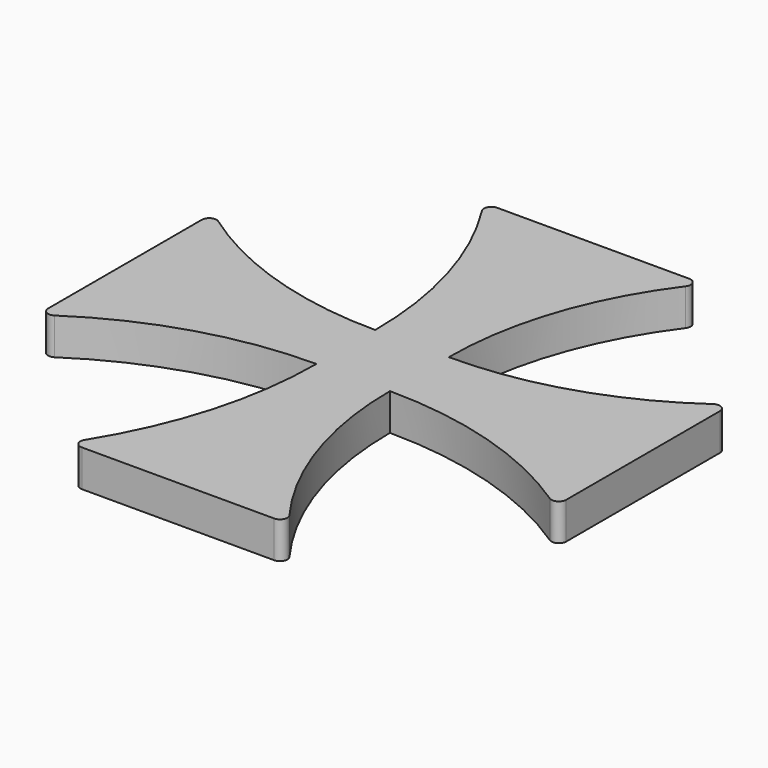
from build123d import *

# Parameters (mm, degrees)
F0_W     = 12.7
F0_H     = 12.7
F1_DEPTH = 6.35


with BuildPart() as f1:
    # F0 (on Top) → F1 (new body)
    with BuildSketch(Plane.XY):
        with BuildLine():
            ThreePointArc((-14.3442461442, 44.2214552806), (-6.5157083147, 26.8794460168), (-3.8352688611, 8.0420753353))
            Line((-3.8352688611, 8.0420753353), (8.8647311389, 8.0420753353))
            ThreePointArc((8.8647311389, 8.0420753353), (11.9476385408, 27.0650575602), (20.880769419, 44.1406935217))
            ThreePointArc((20.880769419, 44.1406935217), (20.9998140667, 45.4702783229), (19.8641300474, 46.1718402803))
            Line((19.8641300474, 46.1718402803), (-13.2718766872, 46.1718402803))
            ThreePointArc((-13.2718766872, 46.1718402803), (-14.3847533537, 45.5137271368), (-14.3442461442, 44.2214552806))
        make_face()
        with Locations((2.5147311389, 1.6920753353)):
            Rectangle(F0_W, F0_H)
        with BuildLine():
            Line((-3.8352688611, -4.6579246647), (-3.8352688611, 8.0420753353))
            ThreePointArc((-3.8352688611, 8.0420753353), (-22.907618948, 11.0020865054), (-40.1856249292, 19.6036394628))
            ThreePointArc((-40.1856249292, 19.6036394628), (-41.5028704476, 19.6949558736), (-42.1892777085, 18.5669844578))
            Line((-42.1892777085, 18.5669844578), (-42.1892777085, -14.5952644188))
            ThreePointArc((-42.1892777085, -14.5952644188), (-41.5191124393, -15.71468315), (-40.2158945655, -15.6526915577))
            ThreePointArc((-40.2158945655, -15.6526915577), (-22.838129341, -7.4666661965), (-3.8352688611, -4.6579246647))
        make_face()
        with BuildLine():
            ThreePointArc((45.2407089921, 19.6050392493), (27.949501895, 11.0023674821), (8.8647311389, 8.0420753353))
            Line((8.8647311389, 8.0420753353), (8.8647311389, -4.6579246647))
            ThreePointArc((8.8647311389, -4.6579246647), (27.8800368025, -7.4669240382), (45.2709735466, -15.6539653915))
            ThreePointArc((45.2709735466, -15.6539653915), (46.574029319, -15.715630352), (47.2440123558, -14.5963092882))
            Line((47.2440123558, -14.5963092882), (47.2440123558, 18.5681370471))
            ThreePointArc((47.2440123558, 18.5681370471), (46.5577951614, 19.6960101056), (45.2407089921, 19.6050392493))
        make_face()
        with BuildLine():
            Line((8.8647311389, -4.6579246647), (-3.8352688611, -4.6579246647))
            ThreePointArc((-3.8352688611, -4.6579246647), (-6.5218024455, -23.8140944846), (-14.3741217041, -41.4922557897))
            ThreePointArc((-14.3741217041, -41.4922557897), (-14.4067252377, -42.7803530641), (-13.2963171308, -43.4339977801))
            Line((-13.2963171308, -43.4339977801), (19.8958706735, -43.4339977801))
            ThreePointArc((19.8958706735, -43.4339977801), (21.0290377599, -42.737436839), (20.9191813312, -41.4118440073))
            ThreePointArc((20.9191813312, -41.4118440073), (11.955300347, -23.9980407223), (8.8647311389, -4.6579246647))
        make_face()
    extrude(amount=F1_DEPTH)


solid = f1.part
